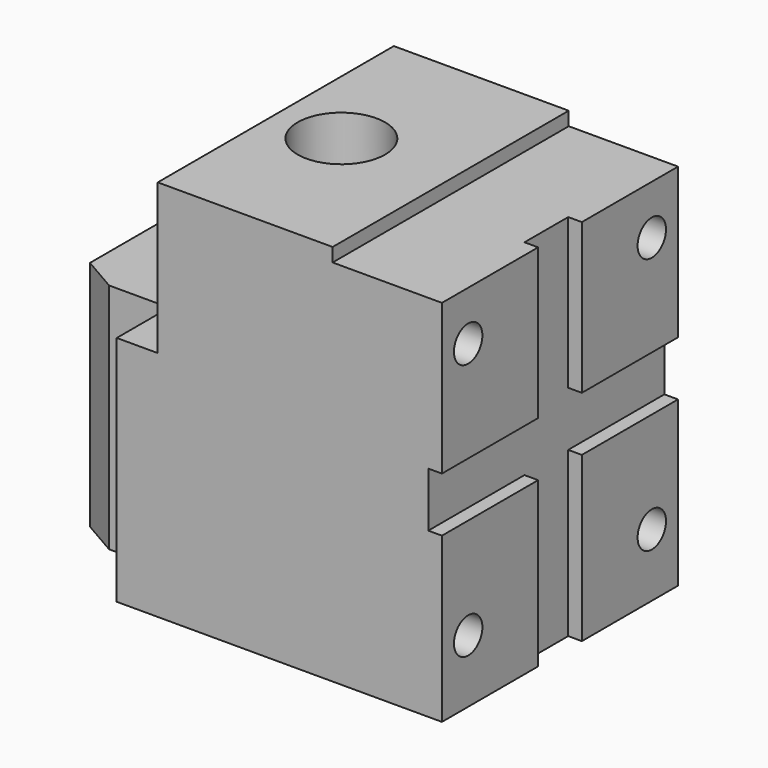
from build123d import *

# Parameters (mm, degrees)
F0_W      = 108
F0_H      = 140
F1_DEPTH  = 154
F2_R      = 6.5
F3_DEPTH  = 154.001
F4_R      = 16
F5_DEPTH  = 140.001
F6_W      = 108
F6_H      = 55
F7_DEPTH  = 50
F9_DEPTH  = 85.001
F10_W     = 40
F10_H     = 108
F11_DEPTH = 5
F12_R     = 10
F13_DEPTH = 20
F14_R     = 10
F15_DEPTH = 20
F16_W     = 20
F16_H     = 60
F16_W_2   = 44
F16_H_2   = 20
F17_DEPTH = 5
F19_ANGLE = 180


with BuildPart() as f1:
    # F0 (on Right) → F1 (new body)
    with BuildSketch(Plane.YZ):
        Rectangle(F0_W, F0_H)
    extrude(amount=-F1_DEPTH)

    # F2 (on face) → F3 (cut, through all)
    with BuildSketch(Plane(origin=(-154, 0, 0), x_dir=(0, -1, 0), z_dir=(-1, 0, 0))):
        with Locations((-42, 47)):
            Circle(F2_R)
        with Locations((42, 47)):
            Circle(F2_R)
        with Locations((-42, -47)):
            Circle(F2_R)
        with Locations((42, -47)):
            Circle(F2_R)
    extrude(amount=-F3_DEPTH, mode=Mode.SUBTRACT)

    # F4 (on face) → F5 (cut, through all)
    with BuildSketch(Plane(origin=(0, 0, -70), x_dir=(1, 0, 0), z_dir=(0, 0, -1))):
        with Locations((-125, 0)):
            Circle(F4_R)
        with Locations((-80, 0)):
            Circle(F4_R)
    extrude(amount=-F5_DEPTH, mode=Mode.SUBTRACT)

    # F6 (on face) → F7 (cut)
    with BuildSketch(Plane(origin=(-154, 0, 0), x_dir=(0, -1, 0), z_dir=(-1, 0, 0))):
        with Locations((0, -42.5)):
            Rectangle(F6_W, F6_H)
    extrude(amount=-F7_DEPTH, mode=Mode.SUBTRACT)

    # F8 (on face) → F9 (cut, through all)
    with BuildSketch(Plane(origin=(0, 0, -15), x_dir=(1, 0, 0), z_dir=(0, 0, -1))):
        Polygon((-154, -54), (-119, -54), (-119, -30), (-141.0096189432, -30), (-154, -22.5), align=None)
        Polygon((-119, 30), (-119, 54), (-154, 54), (-154, 22.5), (-141.0096189432, 30), align=None)
    extrude(amount=-F9_DEPTH, mode=Mode.SUBTRACT)

    # F10 (on face) → F11 (cut)
    with BuildSketch(Plane(origin=(0, 0, -70), x_dir=(1, 0, 0), z_dir=(0, 0, -1))):
        with Locations((-20, 0)):
            Rectangle(F10_W, F10_H)
    extrude(amount=-F11_DEPTH, mode=Mode.SUBTRACT)

    # F12 (on face) → F13 (cut)
    with BuildSketch(Plane(origin=(-104, 0, 0), x_dir=(0, -1, 0), z_dir=(-1, 0, 0))):
        with Locations((-42, -47)):
            Circle(F12_R)
        with Locations((42, -47)):
            Circle(F12_R)
    extrude(amount=-F13_DEPTH, mode=Mode.SUBTRACT)

    # F14 (on face) → F15 (cut)
    with BuildSketch(Plane(origin=(-119, 0, 0), x_dir=(0, -1, 0), z_dir=(-1, 0, 0))):
        with Locations((-42, 47)):
            Circle(F14_R)
        with Locations((42, 47)):
            Circle(F14_R)
    extrude(amount=-F15_DEPTH, mode=Mode.SUBTRACT)

    # F16 (on face) → F17 (cut)
    with BuildSketch(Plane.YZ):
        with Locations((0, 40)):
            Rectangle(F16_W, F16_H)
        with Locations((32, 0)):
            Rectangle(F16_W_2, F16_H_2)
        Rectangle(F16_W, F16_H_2)
        with Locations((-32, 0)):
            Rectangle(F16_W_2, F16_H_2)
        with Locations((0, -40)):
            Rectangle(F16_W, F16_H)
    extrude(amount=-F17_DEPTH, mode=Mode.SUBTRACT)


with BuildPart() as f1_1:
    # F19: moved
    add(f1.part.rotate(Axis((58.3656840026, 0, 0), (1, 0, 0)), F19_ANGLE))


solid = f1_1.part
